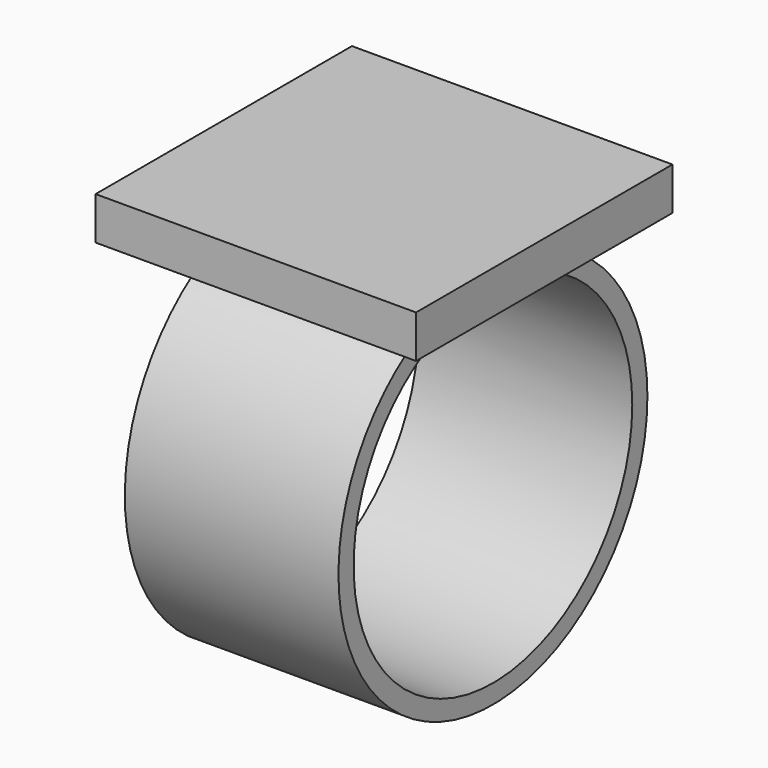
from build123d import *

# Parameters (mm, degrees)
F0_W     = 38.1
F0_H     = 38.1
F1_DEPTH = 5.08
F2_R     = 22.956323
F2_R_2   = 20.705133
F3_DEPTH = 12.7


with BuildPart() as f1:
    # F0 (on Top) → F1 (new body)
    with BuildSketch(Plane.XY):
        Rectangle(F0_W, F0_H)
    extrude(amount=F1_DEPTH)

    # F2 (on Right) → F3 (join, symmetric)
    with BuildSketch(Plane.YZ):
        with Locations((0.315484, -22.954155)):
            Circle(F2_R)
        with Locations((0.315484, -22.954155)):
            Circle(F2_R_2, mode=Mode.SUBTRACT)
    extrude(amount=F3_DEPTH, both=True)


solid = f1.part
